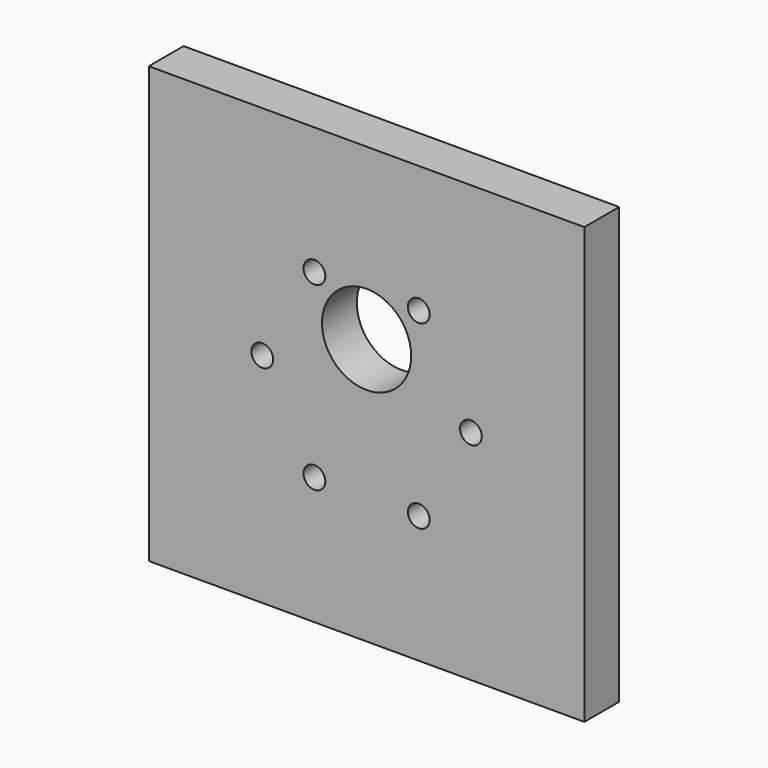
from build123d import *

# Parameters (mm, degrees)
F0_W     = 63.5
F0_H     = 63.5
F1_DEPTH = 6.35
F2_R     = 1.5875
F3_R     = 6.5
F4_DEPTH = 6.351


with BuildPart() as f1:
    # F0 (on Front) → F1 (new body)
    with BuildSketch(Plane.XZ):
        Rectangle(F0_W, F0_H)
    extrude(amount=F1_DEPTH)

    # F2 (on face) + F3 (on face) → F4 (cut, through all)
    with BuildSketch(Plane.XZ.offset(6.35)):
        with Locations((7.60436, 13.171137)):
            Circle(F2_R)
        with Locations((15.208719, 0)):
            Circle(F2_R)
        with Locations((7.60436, -13.171137)):
            Circle(F2_R)
        with Locations((-7.60436, -13.171137)):
            Circle(F2_R)
        with Locations((-15.208719, 0)):
            Circle(F2_R)
        with Locations((-7.60436, 13.171137)):
            Circle(F2_R)
    with BuildSketch(Plane.XZ.offset(6.35)):
        with Locations((0, 7.0104)):
            Circle(F3_R)
    extrude(amount=-F4_DEPTH, mode=Mode.SUBTRACT)


solid = f1.part
